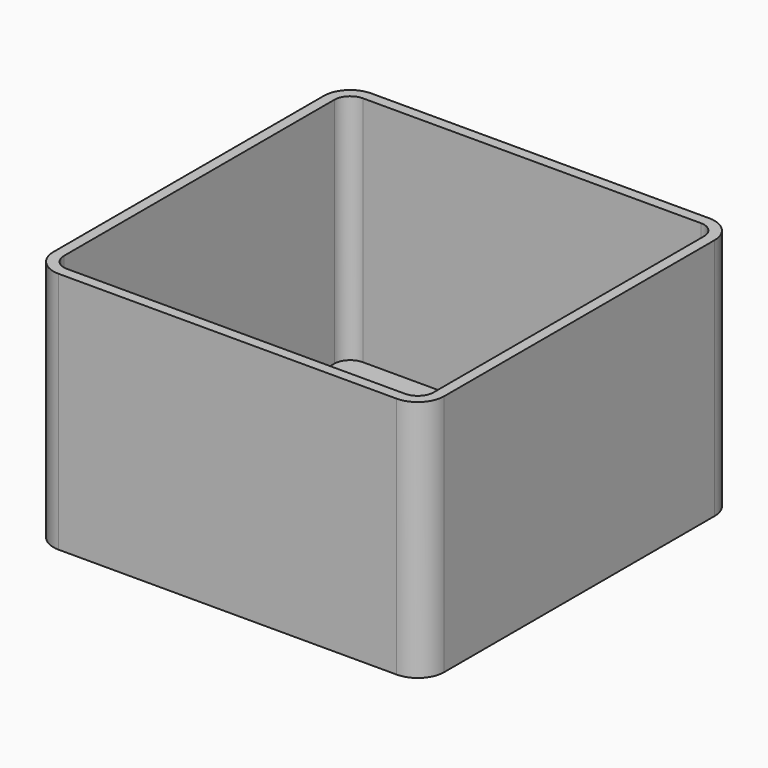
from build123d import *

# Parameters (mm, degrees)
F1_DEPTH = 58.42
F2_T     = -2.54


with BuildPart() as f1:
    # F0 (on Top) → F1 (new body)
    with BuildSketch(Plane.XY):
        with BuildLine():
            Line((64.77, 53.898801), (-16.51, 53.898801))
            ThreePointArc((-16.51, 53.898801), (-21.000128, 52.038929), (-22.86, 47.548801))
            Line((-22.86, 47.548801), (-22.86, -33.731199))
            ThreePointArc((-22.86, -33.731199), (-21.000128, -38.221327), (-16.51, -40.081199))
            Line((-16.51, -40.081199), (64.77, -40.081199))
            ThreePointArc((64.77, -40.081199), (69.260128, -38.221327), (71.12, -33.731199))
            Line((71.12, -33.731199), (71.12, 47.548801))
            ThreePointArc((71.12, 47.548801), (69.260128, 52.038929), (64.77, 53.898801))
        make_face()
    extrude(amount=F1_DEPTH)

    # F2
    f2_openings = [f1.faces().sort_by_distance(p)[0] for p in [
        (24.13, 6.908801, 58.42),
    ]]
    offset(amount=F2_T, openings=f2_openings)


solid = f1.part
